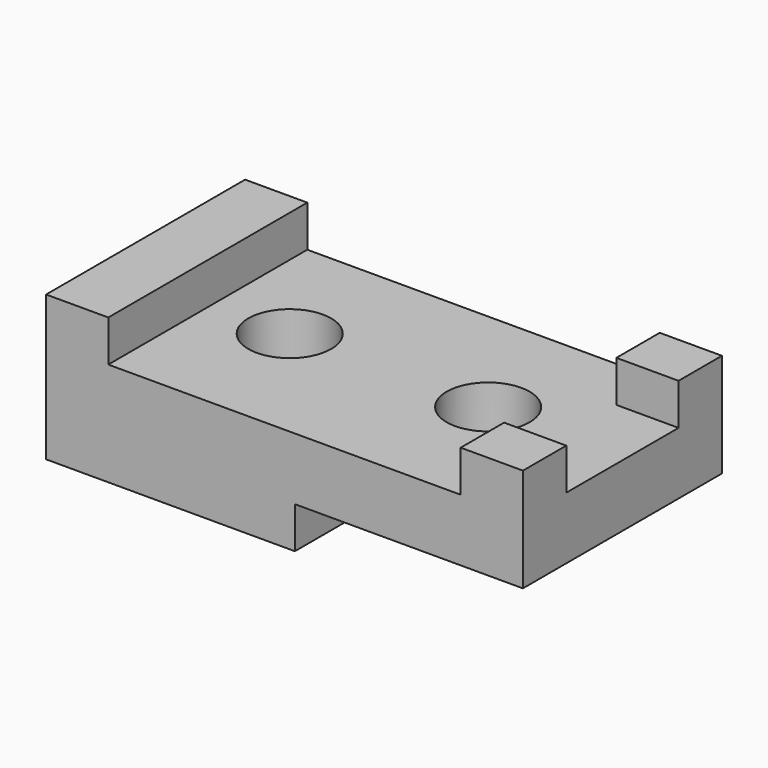
from build123d import *

# Parameters (mm, degrees)
F1_DEPTH = 60
F2_R     = 10
F3_DEPTH = 34.8
F4_W     = 15
F4_H     = 33.852546
F5_DEPTH = 10


with BuildPart() as f1:
    # F0 (on Front) → F1 (new body)
    with BuildSketch(Plane.XZ):
        Polygon((-60, 35), (-60, 0), (0, 0), (0, 10), (55, 10), (55, 35), (40, 35), (40, 25), (-45, 25), (-45, 35), align=None)
    extrude(amount=F1_DEPTH)

    # F2 (on Top) → F3 (cut)
    with BuildSketch(Plane.XY):
        with Locations((-26.186485, -28.806591)):
            Circle(F2_R)
        with Locations((21.658143, -28.806591)):
            Circle(F2_R)
    extrude(amount=F3_DEPTH, mode=Mode.SUBTRACT)

    # F4 (on face) → F5 (cut)
    with BuildSketch(Plane.XY.offset(35)):
        with Locations((47.5, -30)):
            Rectangle(F4_W, F4_H)
    extrude(amount=-F5_DEPTH, mode=Mode.SUBTRACT)


solid = f1.part
